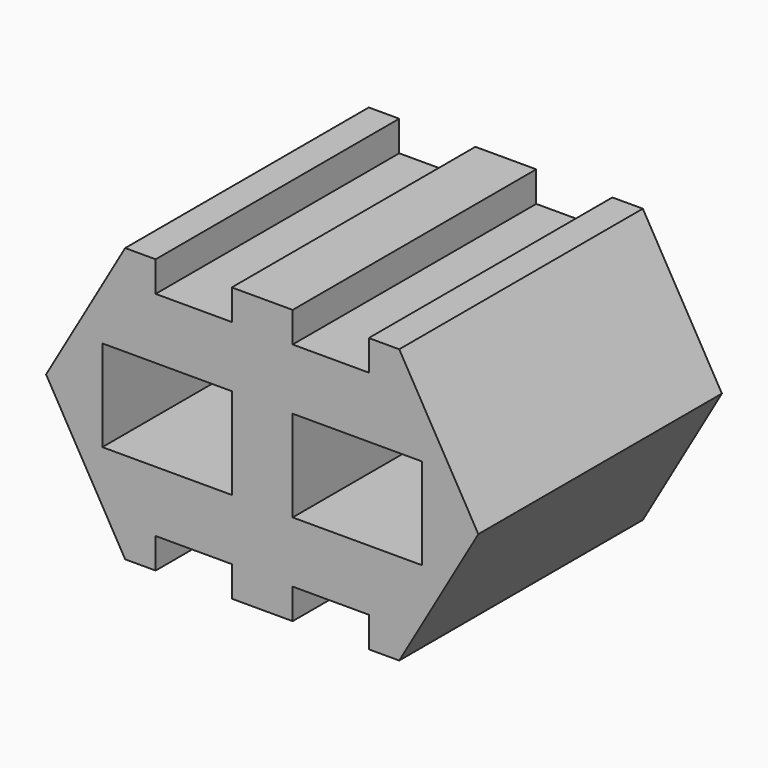
from build123d import *

# Parameters (mm, degrees)
F0_W     = 53.975
F0_H     = 38.1
F1_DEPTH = 127


with BuildPart() as f1:
    # F0 (on Front) → F1 (new body)
    with BuildSketch(Plane.XZ):
        Polygon((12.7, 0), (0, 0), (-32.995568, -57.15), (0, -114.3), (12.7, -114.3), (12.7, -101.6), (44.45, -101.6), (44.45, -114.3), (69.85, -114.3), (69.85, -101.6), (101.6, -101.6), (101.6, -114.3), (114.3, -114.3), (147.295568, -57.15), (114.3, 0), (101.6, 0), (101.6, -12.7), (69.85, -12.7), (69.85, 0), (44.45, 0), (44.45, -12.7), (12.7, -12.7), align=None)
        with Locations((17.4625, -57.15)):
            Rectangle(F0_W, F0_H, mode=Mode.SUBTRACT)
        with Locations((96.8375, -57.15)):
            Rectangle(F0_W, F0_H, mode=Mode.SUBTRACT)
    extrude(amount=F1_DEPTH)


solid = f1.part
